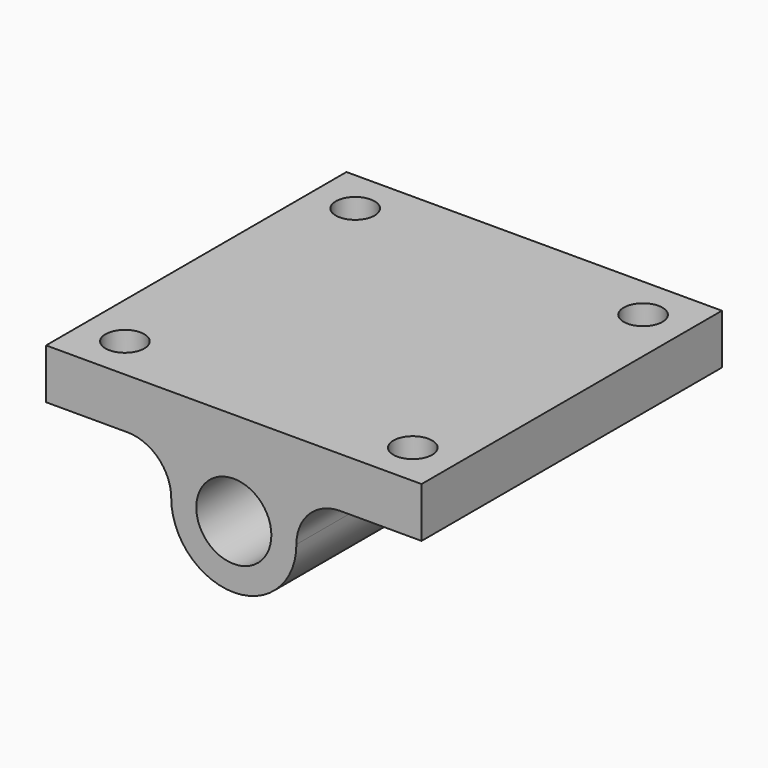
from build123d import *

# Parameters (mm, degrees)
F0_R     = 6
F1_DEPTH = 60
F2_R     = 7
F3_R     = 3.1
F4_DEPTH = 8.001


with BuildPart() as f1:
    # F0 (on Front) → F1 (new body)
    with BuildSketch(Plane.XZ):
        with BuildLine():
            Line((-30, -8), (-7.141428, -8))
            ThreePointArc((-7.141428, -8), (0, -25), (7.141428, -8))
            Line((7.141428, -8), (30, -8))
            Line((30, -8), (30, 0))
            Line((30, 0), (-30, 0))
            Line((-30, 0), (-30, -8))
        make_face()
        with Locations((0, -15)):
            Circle(F0_R, mode=Mode.SUBTRACT)
    extrude(amount=-F1_DEPTH)

    # F2
    f2_edges = [f1.edges().sort_by_distance(p)[0] for p in [
        (7.141428, 30, -8),
        (-7.141428, 30, -8),
    ]]
    fillet(f2_edges, radius=F2_R)

    # F3 (on face) → F4 (cut, through all)
    with BuildSketch(Plane(origin=(0, 0, -8), x_dir=(1, 0, 0), z_dir=(0, 0, -1))):
        with Locations((-23, -7)):
            Circle(F3_R)
        with Locations((-23, -53)):
            Circle(F3_R)
        with Locations((23, -7)):
            Circle(F3_R)
        with Locations((23, -53)):
            Circle(F3_R)
    extrude(amount=-F4_DEPTH, mode=Mode.SUBTRACT)


solid = f1.part
